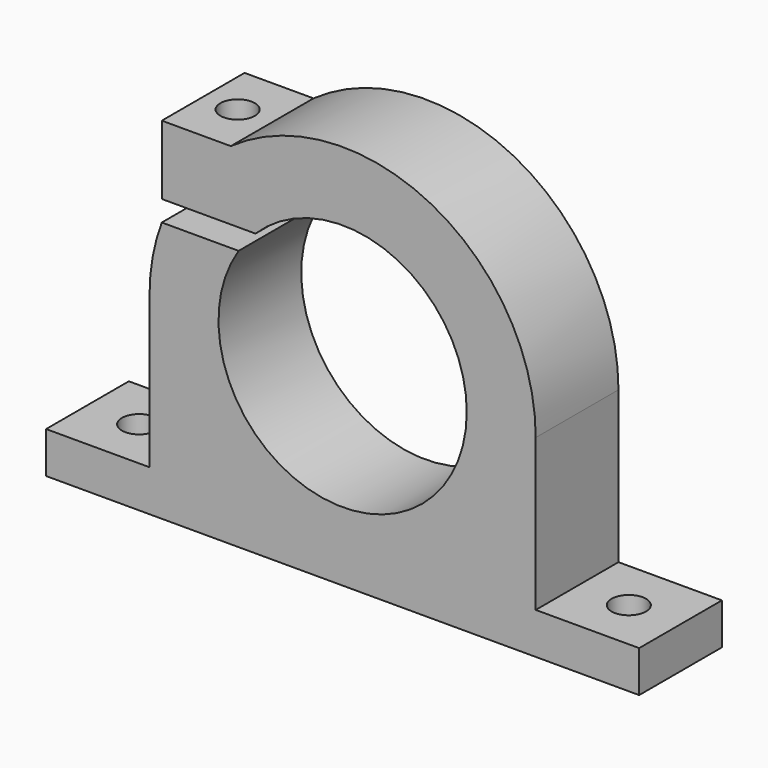
from build123d import *

# Parameters (mm, degrees)
F1_DEPTH = 7.5
F2_R     = 2.5
F3_DEPTH = 6
F4_R     = 2.5
F5_DEPTH = 18


with BuildPart() as f1:
    # F0 (on Front) → F1 (new body, symmetric)
    with BuildSketch(Plane.XZ):
        with BuildLine():
            ThreePointArc((28, 0), (12.841967, 24.881396), (-16.220278, 22.823291))
            Line((-16.220278, 22.823291), (-26.220278, 22.823291))
            Line((-26.220278, 22.823291), (-26.220278, 12.823291))
            Line((-26.220278, 12.823291), (-12.631834, 12.823291))
            ThreePointArc((-12.631834, 12.823291), (13.938464, -11.389434), (-15.083201, 9.823291))
            Line((-15.083201, 9.823291), (-26.220278, 9.823291))
            ThreePointArc((-26.220278, 9.823291), (-27.551477, 4.991604), (-28, 0))
            Line((-28, 0), (-28, -22))
            Line((-28, -22), (-43, -22))
            Line((-43, -22), (-43, -28))
            Line((-43, -28), (43, -28))
            Line((43, -28), (43, -22))
            Line((43, -22), (28, -22))
            Line((28, -22), (28, 0))
        make_face()
    extrude(amount=F1_DEPTH, both=True)

    # F2 (on face) → F3 (cut, through all)
    with BuildSketch(Plane.XY.offset(-22)):
        with Locations((-35.5, 0)):
            Circle(F2_R)
        with Locations((35.5, 0)):
            Circle(F2_R)
    extrude(amount=-F3_DEPTH, mode=Mode.SUBTRACT)

    # F4 (on face) → F5 (cut)
    with BuildSketch(Plane.XY.offset(22.823291)):
        with Locations((-21.220278, 0)):
            Circle(F4_R)
    extrude(amount=-F5_DEPTH, mode=Mode.SUBTRACT)


solid = f1.part
